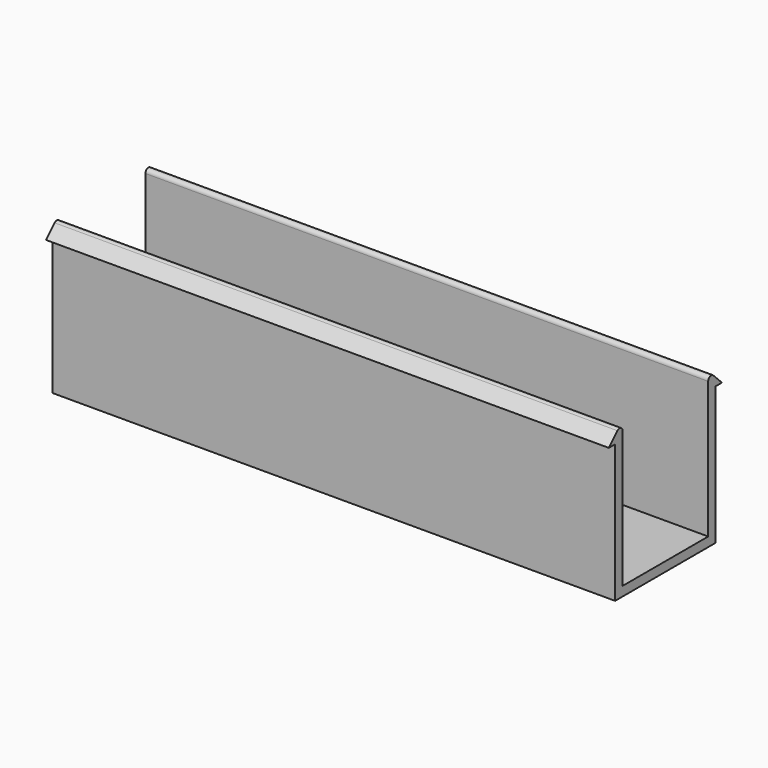
from build123d import *

# Parameters (mm, degrees)
F0_W     = 3.175
F0_H     = 31.496
F1_DEPTH = 191.008


with BuildPart() as f1:
    # F0 (on Right) → F1 (new body)
    with BuildSketch(Plane.YZ):
        Polygon((0, 12.954), (0, 0), (42.672, 0), (42.672, 12.954), (39.497, 12.954), (39.497, 3.175), (3.175, 3.175), (3.175, 12.954), align=None)
        with Locations((1.5875, 28.702)):
            Rectangle(F0_W, F0_H)
        with Locations((41.0845, 28.702)):
            Rectangle(F0_W, F0_H)
        with BuildLine():
            Line((0, 46.779451), (0, 44.45))
            Line((0, 44.45), (3.175, 44.45))
            Line((3.175, 44.45), (3.175, 49.53))
            ThreePointArc((3.175, 49.53), (2.391008, 50.703327), (1.006974, 50.428026))
            Line((1.006974, 50.428026), (-2.6416, 46.779451))
            Line((-2.6416, 46.779451), (0, 46.779451))
        make_face()
        with BuildLine():
            Line((39.497, 44.45), (42.672, 44.45))
            Line((42.672, 44.45), (42.672, 46.779451))
            Line((42.672, 46.779451), (45.3136, 46.779451))
            Line((45.3136, 46.779451), (41.665026, 50.428026))
            ThreePointArc((41.665026, 50.428026), (40.280992, 50.703327), (39.497, 49.53))
            Line((39.497, 49.53), (39.497, 44.45))
        make_face()
    extrude(amount=F1_DEPTH)


solid = f1.part
